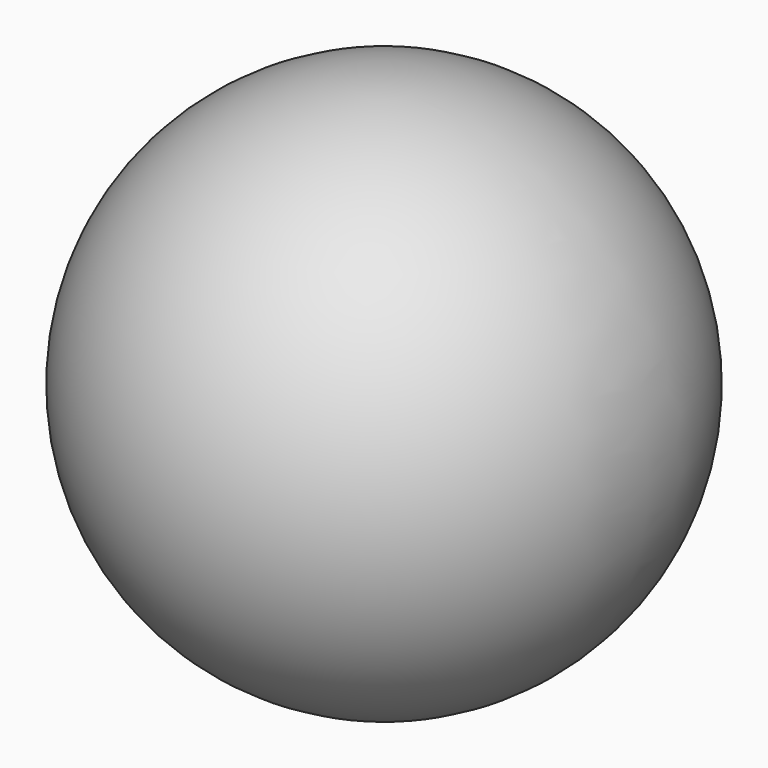
from build123d import *


with BuildPart() as part:
    # Sphere → Sphere (revolve)
    with BuildSketch(Plane.XZ):
        with BuildLine():
            ThreePointArc((0, -25), (25, 0), (0, 25))
            Line((0, 25), (0, -25))
        make_face()
    revolve(axis=Axis((0, 0, 0), (0, 0, 1)))


solid = part.part
